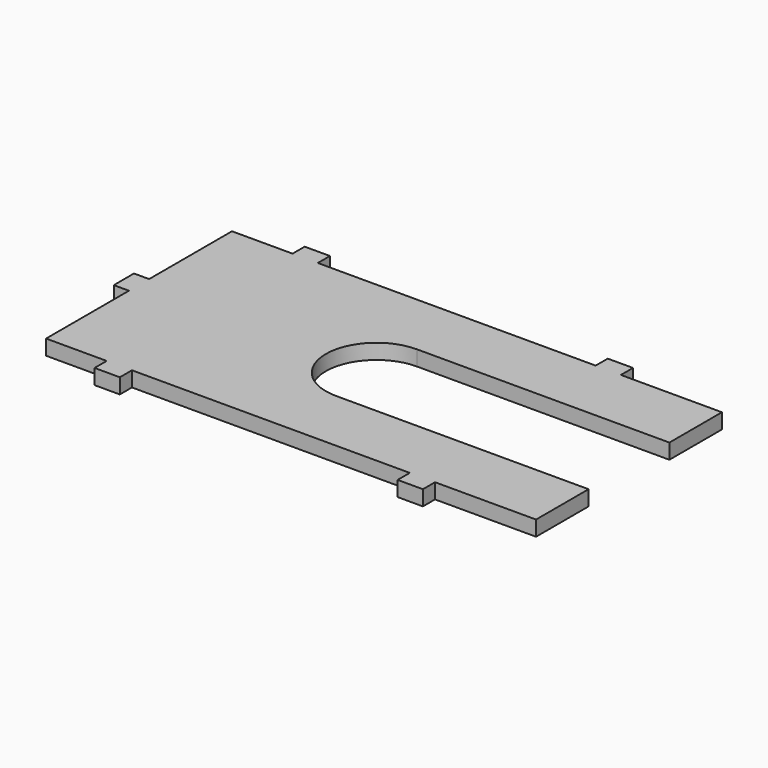
from build123d import *

# Parameters (mm, degrees)
F0_W     = 100
F0_H     = 52
F1_DEPTH = 3
F3_W     = 12
F3_H     = 3
F3_W_2   = 3
F3_H_2   = 20.5
F3_W_3   = 55
F3_W_4   = 17
F4_DEPTH = 3.001
F6_DEPTH = 3.001


with BuildPart() as f1:
    # F0 (on Top) → F1 (new body)
    with BuildSketch(Plane.XY):
        Rectangle(F0_W, F0_H)
    extrude(amount=F1_DEPTH)

    # F3 (on face) → F4 (cut, through all)
    with BuildSketch(Plane.XY.offset(3)):
        with Locations((-41, 24.5)):
            Rectangle(F3_W, F3_H)
        with Locations((-48.5, 24.5)):
            Rectangle(F3_W_2, F3_H)
        with Locations((-48.5, 12.75)):
            Rectangle(F3_W_2, F3_H_2)
        with Locations((-48.5, -12.75)):
            Rectangle(F3_W_2, F3_H_2)
        with Locations((-48.5, -24.5)):
            Rectangle(F3_W_2, F3_H)
        with Locations((-41, -24.5)):
            Rectangle(F3_W, F3_H)
        with Locations((-2.5, -24.5)):
            Rectangle(F3_W_3, F3_H)
        with Locations((38.5, -24.5)):
            Rectangle(F3_W_4, F3_H)
        with Locations((48.5, -24.5)):
            Rectangle(F3_W_2, F3_H)
        with Locations((48.5, 24.5)):
            Rectangle(F3_W_2, F3_H)
        with Locations((38.5, 24.5)):
            Rectangle(F3_W_4, F3_H)
        with Locations((-2.5, 24.5)):
            Rectangle(F3_W_3, F3_H)
    extrude(amount=-F4_DEPTH, mode=Mode.SUBTRACT)

    # F5 (on face) → F6 (cut, through all)
    with BuildSketch(Plane.XY.offset(3)):
        with BuildLine():
            ThreePointArc((0, -10), (7.071068, -7.071068), (10, 0))
            ThreePointArc((10, 0), (7.071068, 7.071068), (0, 10))
            ThreePointArc((0, 10), (-10, 0), (0, -10))
        make_face()
        with BuildLine():
            ThreePointArc((0, 10), (7.071068, 7.071068), (10, 0))
            ThreePointArc((10, 0), (7.071068, -7.071068), (0, -10))
            Line((0, -10), (50, -10))
            Line((50, -10), (50, 10))
            Line((50, 10), (0, 10))
        make_face()
    extrude(amount=-F6_DEPTH, mode=Mode.SUBTRACT)


solid = f1.part
